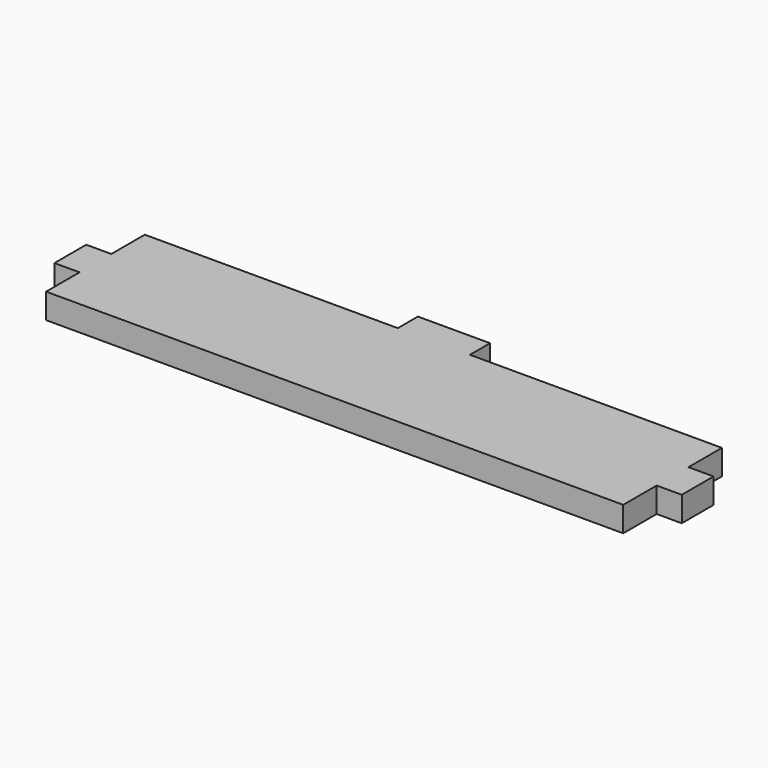
from build123d import *

# Parameters (mm, degrees)
F1_DEPTH = 3.048


with BuildPart() as f1:
    # F0 (on Top) → F1 (new body)
    with BuildSketch(Plane.XY):
        Polygon((4.445, 9.017), (-4.318, 9.017), (-4.318, 5.969), (-35.052, 5.969), (-35.052, 0.889), (-38.1, 0.889), (-38.1, -3.937), (-35.052, -3.937), (-35.052, -9.017), (35.052, -9.017), (35.052, -3.937), (38.1, -3.937), (38.1, 0.889), (35.052, 0.889), (35.052, 5.969), (4.445, 5.969), align=None)
    extrude(amount=F1_DEPTH)


solid = f1.part
